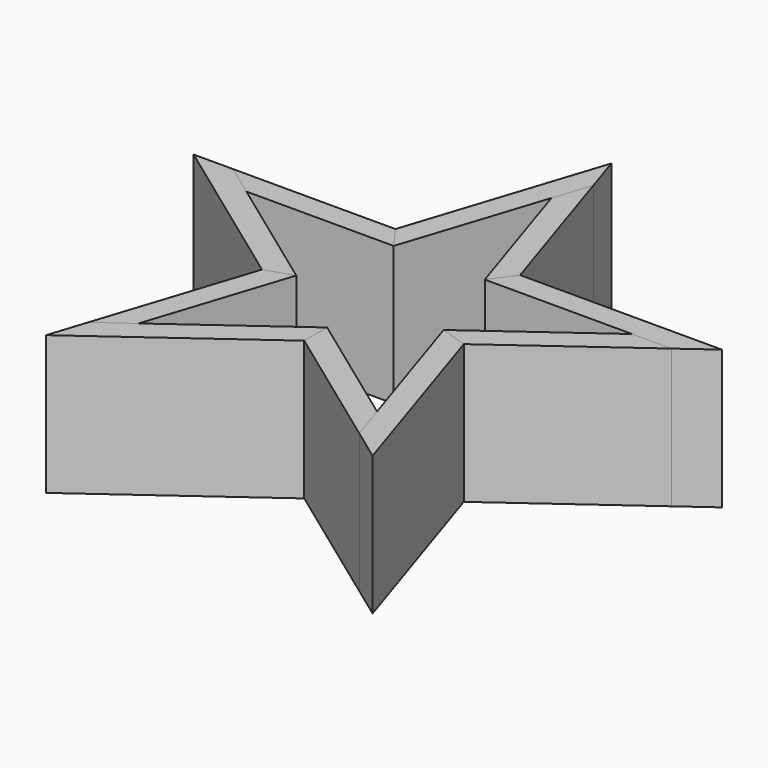
from build123d import *

# Parameters (mm, degrees)
F2_DEPTH = 76.2
F1_DEPTH = 76.2
F4_COUNT = 5
F4_ANGLE = 288


with BuildPart() as f2:
    # F0 (on Top) → F2 (new body)
    with BuildSketch(Plane.XY):
        Polygon((34.215932, 47.09419), (6.676785, 131.850968), (0, 111.301937), (24.988842, 34.39419), align=None)
    extrude(amount=F2_DEPTH)


with BuildPart() as f1:
    # F0 (on Top) → F1 (new body)
    with BuildSketch(Plane.XY):
        Polygon((6.676785, 131.850968), (0, 152.4), (-34.215932, 47.09419), (-24.988842, 34.39419), (0, 111.301937), align=None)
    extrude(amount=F1_DEPTH)


with BuildPart() as f4_1:
    # F4: instance of F1
    add(f1.part.rotate(Axis((0, 0, 63.5), (0, 0, 1)), 1 * F4_ANGLE / (F4_COUNT - 1)))


with BuildPart() as f4_2:
    # F4: instance of F1
    add(f1.part.rotate(Axis((0, 0, 63.5), (0, 0, 1)), 2 * F4_ANGLE / (F4_COUNT - 1)))


with BuildPart() as f4_3:
    # F4: instance of F1
    add(f1.part.rotate(Axis((0, 0, 63.5), (0, 0, 1)), 3 * F4_ANGLE / (F4_COUNT - 1)))


with BuildPart() as f4_4:
    # F4: instance of F1
    add(f1.part.rotate(Axis((0, 0, 63.5), (0, 0, 1)), 4 * F4_ANGLE / (F4_COUNT - 1)))


with BuildPart() as f4_5:
    # F4: instance of F2
    add(f2.part.rotate(Axis((0, 0, 63.5), (0, 0, 1)), 1 * F4_ANGLE / (F4_COUNT - 1)))


with BuildPart() as f4_6:
    # F4: instance of F2
    add(f2.part.rotate(Axis((0, 0, 63.5), (0, 0, 1)), 2 * F4_ANGLE / (F4_COUNT - 1)))


with BuildPart() as f4_7:
    # F4: instance of F2
    add(f2.part.rotate(Axis((0, 0, 63.5), (0, 0, 1)), 3 * F4_ANGLE / (F4_COUNT - 1)))


with BuildPart() as f4_8:
    # F4: instance of F2
    add(f2.part.rotate(Axis((0, 0, 63.5), (0, 0, 1)), 4 * F4_ANGLE / (F4_COUNT - 1)))


solid = Compound([f2.part, f1.part, f4_1.part, f4_2.part, f4_3.part, f4_4.part, f4_5.part, f4_6.part, f4_7.part, f4_8.part])
